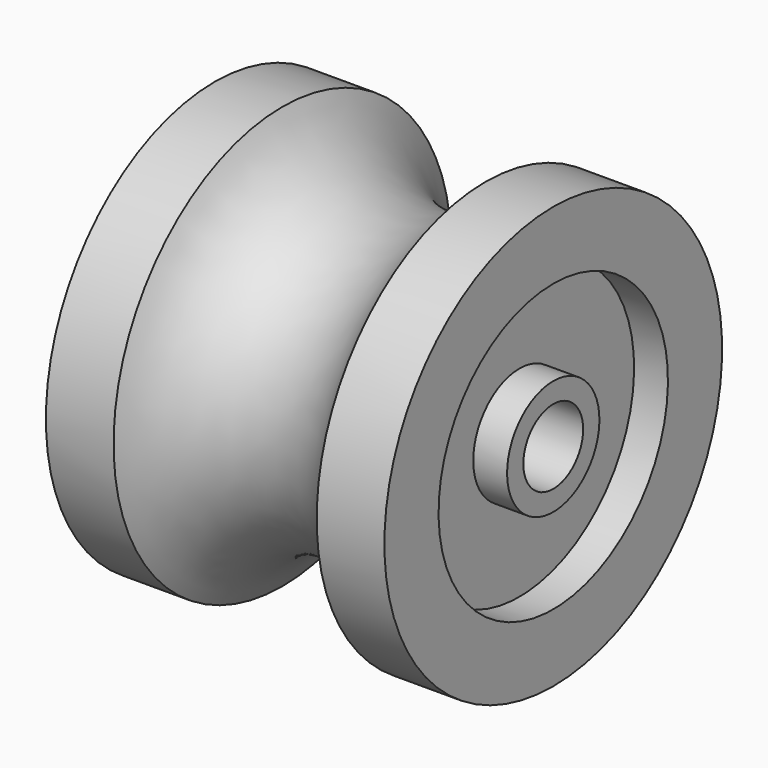
from build123d import *


with BuildPart() as f1:
    # F0 (on Front) → F1 (revolve)
    with BuildSketch(Plane.XZ):
        with BuildLine():
            Line((24.591917, 21.178339), (24.591917, 31.178339))
            Line((24.591917, 31.178339), (14.591917, 31.178339))
            ThreePointArc((14.591917, 31.178339), (-0.408083, 21.285137), (-15.408083, 31.178339))
            Line((-15.408083, 31.178339), (-25.408083, 31.178339))
            Line((-25.408083, 31.178339), (-25.408083, 21.178339))
            Line((-25.408083, 21.178339), (-20.408083, 21.178339))
            Line((-20.408083, 21.178339), (-20.408083, 8.518997))
            Line((-20.408083, 8.518997), (-25.408083, 8.518997))
            Line((-25.408083, 8.518997), (-25.408083, 5.518997))
            Line((-25.408083, 5.518997), (24.591917, 5.518997))
            Line((24.591917, 5.518997), (24.591917, 8.518997))
            Line((24.591917, 8.518997), (19.591917, 8.518997))
            Line((19.591917, 8.518997), (19.591917, 21.178339))
            Line((19.591917, 21.178339), (24.591917, 21.178339))
        make_face()
    revolve(axis=Axis((-0.875117, 0, 0), (1, 0, 0)))


solid = f1.part
